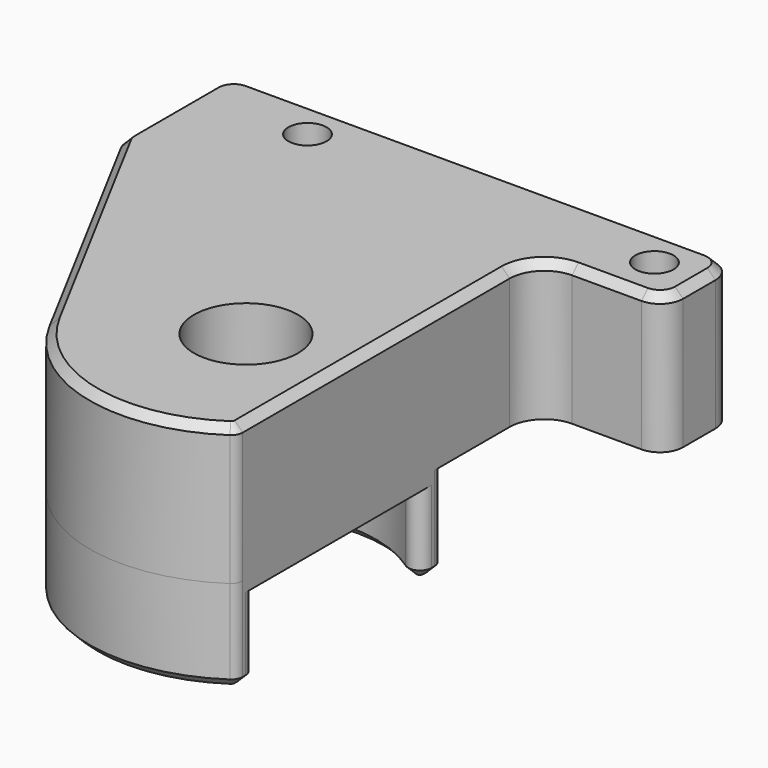
from build123d import *

# Parameters (mm, degrees)
SKETCH027_R     = 1.65
SKETCH027_R_2   = 4.5
PAD014_DEPTH    = 12
SKETCH028_R     = 4.5
PAD015_DEPTH    = 8
SKETCH029_R     = 11.25
POCKET006_DEPTH = 7
FILLET001_R     = 3
FILLET003_R     = 1
FILLET004_R     = 2
CHAMFER010_SIZE = 0.7


with BuildPart() as part:
    # Sketch027 → Pad014 (new body)
    with BuildSketch(Plane.XY):
        with BuildLine():
            ThreePointArc((-11.900838, -6.373387), (-2.978027, -13.167435), (8, -10.874282))
            Line((8, -10.874282), (8, 21.5))
            Line((8, 21.5), (19, 21.5))
            Line((19, 21.5), (19, 29))
            Line((19, 29), (-24.657124, 29))
            Line((-24.657124, 29), (-24.657124, 17.446049))
            Line((-24.657124, 17.446049), (-11.900838, -6.373387))
        make_face()
        with Locations((15, 25.4)):
            Circle(SKETCH027_R, mode=Mode.SUBTRACT)
        with Locations((-15, 25.4)):
            Circle(SKETCH027_R, mode=Mode.SUBTRACT)
        Circle(SKETCH027_R_2, mode=Mode.SUBTRACT)
    extrude(amount=PAD014_DEPTH)

    # Sketch028 (on Face11 of Pad014) → Pad015 (join)
    with BuildSketch(Plane(origin=(0, 0, 0), x_dir=(1, 0, 0), z_dir=(0, 0, -1))):
        with BuildLine():
            ThreePointArc((8, 10.874282), (-13.5, 0), (8, -10.874282))
            Line((8, -10.874282), (8, 10.874282))
        make_face()
        Circle(SKETCH028_R, mode=Mode.SUBTRACT)
    extrude(amount=PAD015_DEPTH)

    # Sketch029 (on Face1 of Pad015) → Pocket006 (cut)
    with BuildSketch(Plane(origin=(0, 0, -8), x_dir=(1, 0, 0), z_dir=(0, 0, -1))):
        Circle(SKETCH029_R)
    extrude(amount=-POCKET006_DEPTH, mode=Mode.SUBTRACT)

    # Fillet001
    fillet001_edges = [part.edges().sort_by_distance(p)[0] for p in [
        (8, 21.5, 6),
    ]]
    fillet(fillet001_edges, radius=FILLET001_R)

    # Fillet003
    fillet003_edges = [part.edges().sort_by_distance(p)[0] for p in [
        (8, -10.874282, 2),
        (8, -7.909646, -4.5),
        (8, 7.909646, -4.5),
        (8, 10.874282, -4),
    ]]
    fillet(fillet003_edges, radius=FILLET003_R)

    # Fillet004
    fillet004_edges = [part.edges().sort_by_distance(p)[0] for p in [
        (19, 21.5, 6),
        (19, 29, 6),
        (-24.657124, 17.446049, 6),
        (-24.657124, 29, 6),
    ]]
    fillet(fillet004_edges, radius=FILLET004_R)

    # Chamfer010
    chamfer010_edges = [part.edges().sort_by_distance(p)[0] for p in [
        (-24.657124, 22.473937, 12),
        (-13.5, 0, -8),
    ]]
    chamfer(chamfer010_edges, length=CHAMFER010_SIZE)


with BuildPart() as part_1:
    # Body012 placement: moved
    add(part.part.moved(Location((0, -32, 50))))


solid = part_1.part
